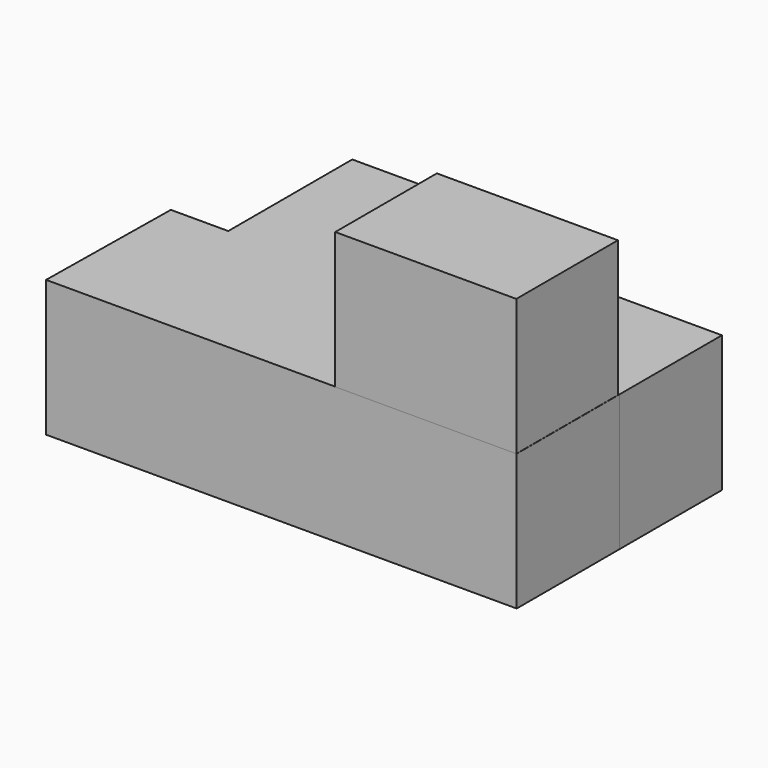
from build123d import *

# Parameters (mm, degrees)
F0_W     = 20.123318
F0_H     = 63.274436
F0_W_2   = 87.961823
F0_H_2   = 62.13342
F1_DEPTH = 66.04
F2_W     = 87.720662
F2_H     = 61.531588
F3_DEPTH = 66.04


with BuildPart() as f1:
    # F0 (on Top) → F1 (new body)
    with BuildSketch(Plane.XY):
        Polygon((-96.675053, -21.160625), (-97.712345, -95.430292), (0, -95.430292), (0, -32.155856), (0, -21.160625), (-68.875805, -21.160625), align=None)
        with Locations((10.061659, -63.793074)):
            Rectangle(F0_W, F0_H)
        Polygon((20.123318, -32.155856), (20.123318, -95.430292), (42.321235, -95.430292), (42.321235, -33.296872), (130.283058, -33.296872), (130.283058, 28.836548), (0, 28.836548), (0, 53.938866), (-68.875805, 53.938866), (-68.875805, -21.160625), (0, -21.160625), (0, -32.155856), align=None)
        with Locations((86.302146, -64.363582)):
            Rectangle(F0_W_2, F0_H_2)
    extrude(amount=-F1_DEPTH)

    # F2 (on face) → F3 (join)
    with BuildSketch(Plane.XY):
        with Locations((86.33475, -64.790167)):
            Rectangle(F2_W, F2_H)
    extrude(amount=F3_DEPTH)


solid = f1.part
